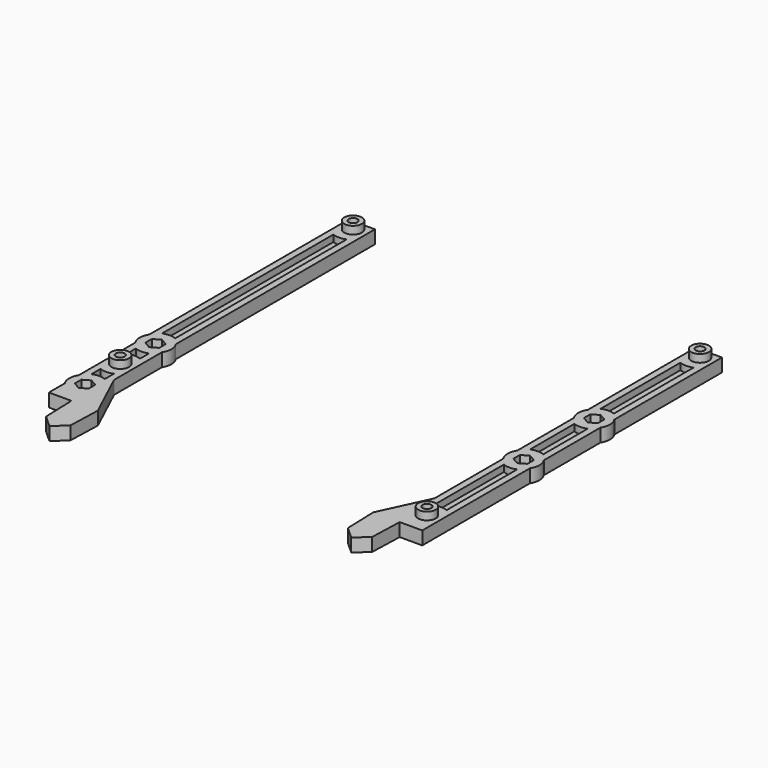
from build123d import *

# Parameters (mm, degrees)
F0_R     = 2
F1_DEPTH = 6
F2_R     = 4
F2_R_2   = 2
F3_DEPTH = 9.5
F4_R     = 7.175
F5_DEPTH = 6
F6_DEPTH = 9.501
F8_DEPTH = 3


with BuildPart() as f1:
    # F0 (on Top) → F1 (new body)
    with BuildSketch(Plane.XY):
        Polygon((-84.74, 85), (-84.74, -85), (-74.5, -85), (-74, -100), (-68.5, -105), (-63, -100), (-62.5, -85), (-72.74, -63.040249), (-72.74, 85), align=None)
        with Locations((-78.74, -51.98)):
            Circle(F0_R, mode=Mode.SUBTRACT)
        with Locations((-78.74, 80.1)):
            Circle(F0_R, mode=Mode.SUBTRACT)
        Polygon((63, -100), (68.5, -105), (74, -100), (74.5, -85), (84.74, -85), (84.74, 85), (72.74, 85), (72.74, -63.040249), (62.5, -85), align=None)
        with Locations((78.74, -74.84)):
            Circle(F0_R, mode=Mode.SUBTRACT)
        with Locations((78.74, 80.1)):
            Circle(F0_R, mode=Mode.SUBTRACT)
    extrude(amount=F1_DEPTH)

    # F2 (on Top) → F3 (join)
    with BuildSketch(Plane.XY):
        with Locations((-78.74, -51.98)):
            Circle(F2_R)
        with Locations((-78.74, -51.98)):
            Circle(F2_R_2, mode=Mode.SUBTRACT)
        with Locations((-78.74, 80.1)):
            Circle(F2_R)
        with Locations((-78.74, 80.1)):
            Circle(F2_R_2, mode=Mode.SUBTRACT)
        with Locations((78.74, -74.84)):
            Circle(F2_R)
        with Locations((78.74, -74.84)):
            Circle(F2_R_2, mode=Mode.SUBTRACT)
        with Locations((78.74, 80.1)):
            Circle(F2_R)
        with Locations((78.74, 80.1)):
            Circle(F2_R_2, mode=Mode.SUBTRACT)
    extrude(amount=F3_DEPTH)

    # F4 (on Top) → F5 (join, through all)
    with BuildSketch(Plane.XY):
        with Locations((-78.74, -31.98)):
            Circle(F4_R)
        Polygon((-78.74, -28.313826), (-75.565, -30.146913), (-75.565, -33.813087), (-78.74, -35.646174), (-81.915, -33.813087), (-81.915, -30.146913), align=None, mode=Mode.SUBTRACT)
        with Locations((-78.74, -71.98)):
            Circle(F4_R)
        Polygon((-78.74, -68.313826), (-75.565, -70.146913), (-75.565, -73.813087), (-78.74, -75.646174), (-81.915, -73.813087), (-81.915, -70.146913), align=None, mode=Mode.SUBTRACT)
        with Locations((78.74, 20)):
            Circle(F4_R)
        Polygon((78.74, 23.666174), (81.915, 21.833087), (81.915, 18.166913), (78.74, 16.333826), (75.565, 18.166913), (75.565, 21.833087), align=None, mode=Mode.SUBTRACT)
        with Locations((78.74, -20)):
            Circle(F4_R)
        Polygon((78.74, -16.333826), (81.915, -18.166913), (81.915, -21.833087), (78.74, -23.666174), (75.565, -21.833087), (75.565, -18.166913), align=None, mode=Mode.SUBTRACT)
    extrude(amount=F5_DEPTH)

    # F4 (on Top) → F6 (cut, through all)
    with BuildSketch(Plane.XY):
        Polygon((-75.565, -33.813087), (-75.565, -30.146913), (-78.74, -28.313826), (-81.915, -30.146913), (-81.915, -33.813087), (-78.74, -35.646174), align=None)
        Polygon((-75.565, -73.813087), (-75.565, -70.146913), (-78.74, -68.313826), (-81.915, -70.146913), (-81.915, -73.813087), (-78.74, -75.646174), align=None)
        Polygon((81.915, -21.833087), (81.915, -18.166913), (78.74, -16.333826), (75.565, -18.166913), (75.565, -21.833087), (78.74, -23.666174), align=None)
        Polygon((81.915, 18.166913), (81.915, 21.833087), (78.74, 23.666174), (75.565, 21.833087), (75.565, 18.166913), (78.74, 16.333826), align=None)
    extrude(amount=F6_DEPTH, mode=Mode.SUBTRACT)

    # F7 (on face) → F8 (cut)
    with BuildSketch(Plane.XY.offset(6)):
        with BuildLine():
            ThreePointArc((-75.74, -39.396198), (-78.74, -39.98), (-81.74, -39.396198))
            Line((-81.74, -39.396198), (-81.74, -44.563802))
            ThreePointArc((-81.74, -44.563802), (-78.74, -43.98), (-75.74, -44.563802))
            Line((-75.74, -44.563802), (-75.74, -39.396198))
        make_face()
        with BuildLine():
            ThreePointArc((75.74, -12.583802), (78.74, -12), (81.74, -12.583802))
            Line((81.74, -12.583802), (81.74, 12.583802))
            ThreePointArc((81.74, 12.583802), (78.74, 12), (75.74, 12.583802))
            Line((75.74, 12.583802), (75.74, -12.583802))
        make_face()
        with BuildLine():
            ThreePointArc((-75.74, 72.683802), (-78.74, 72.1), (-81.74, 72.683802))
            Line((-81.74, 72.683802), (-81.74, -24.563802))
            ThreePointArc((-81.74, -24.563802), (-78.74, -23.98), (-75.74, -24.563802))
            Line((-75.74, -24.563802), (-75.74, 72.683802))
        make_face()
        with BuildLine():
            ThreePointArc((-75.74, -59.396198), (-78.74, -59.98), (-81.74, -59.396198))
            Line((-81.74, -59.396198), (-81.74, -64.563802))
            ThreePointArc((-81.74, -64.563802), (-78.74, -63.98), (-75.74, -64.563802))
            Line((-75.74, -64.563802), (-75.74, -59.396198))
        make_face()
        with BuildLine():
            ThreePointArc((81.74, 72.683802), (78.74, 72.1), (75.74, 72.683802))
            Line((75.74, 72.683802), (75.74, 27.416198))
            ThreePointArc((75.74, 27.416198), (78.74, 28), (81.74, 27.416198))
            Line((81.74, 27.416198), (81.74, 72.683802))
        make_face()
        with BuildLine():
            ThreePointArc((75.74, -67.423802), (78.74, -66.84), (81.74, -67.423802))
            Line((81.74, -67.423802), (81.74, -27.416198))
            ThreePointArc((81.74, -27.416198), (78.74, -28), (75.74, -27.416198))
            Line((75.74, -27.416198), (75.74, -67.423802))
        make_face()
    extrude(amount=-F8_DEPTH, mode=Mode.SUBTRACT)


solid = f1.part
